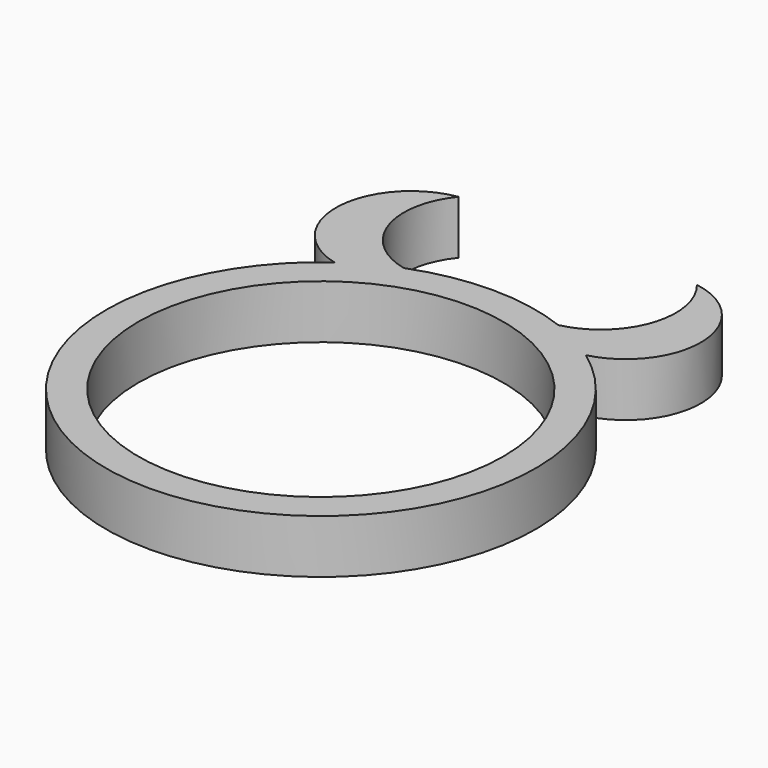
from build123d import *

# Parameters (mm, degrees)
CYLINDER003_R          = 0.7
CYLINDER003_DEPTH      = 0.5
CYLINDER002_R          = 0.7
CYLINDER002_DEPTH      = 0.5
CUT001_PLACEMENT_ANGLE = 60
CYLINDER001_R          = 1.7
CYLINDER001_DEPTH      = 0.5
CYLINDER_R             = 2
CYLINDER_DEPTH         = 0.5
CYLINDER005_R          = 0.7
CYLINDER005_DEPTH      = 0.5
CYLINDER004_R          = 0.7
CYLINDER004_DEPTH      = 0.5
CUT002_PLACEMENT_ANGLE = 300


with BuildPart() as cilindro003:
    # Cylinder003 → Cylinder003 (new body)
    with BuildSketch(Plane(origin=(0, 0.5, 0), x_dir=(1, 0, 0), z_dir=(0, 0, 1))):
        Circle(CYLINDER003_R)
    extrude(amount=CYLINDER003_DEPTH)


with BuildPart() as cut001:
    # Cylinder002 → Cylinder002 (new body)
    with BuildSketch(Plane.XY):
        Circle(CYLINDER002_R)
    extrude(amount=CYLINDER002_DEPTH)

    # Cut001: cut Cilindro003
    add(cilindro003.part, mode=Mode.SUBTRACT)


with BuildPart() as cut001_1:
    # Cut001 placement: moved
    add(cut001.part.moved(Location((1, 2.3, 0))).rotate(Axis((1, 2.3, 0), (0, 0, 1)), CUT001_PLACEMENT_ANGLE))


with BuildPart() as cilindro001:
    # Cylinder001 → Cylinder001 (new body)
    with BuildSketch(Plane.XY):
        Circle(CYLINDER001_R)
    extrude(amount=CYLINDER001_DEPTH)


with BuildPart() as fusion:
    # Cylinder → Cylinder (new body)
    with BuildSketch(Plane.XY):
        Circle(CYLINDER_R)
    extrude(amount=CYLINDER_DEPTH)

    # Cut: cut Cilindro001
    add(cilindro001.part, mode=Mode.SUBTRACT)

    # Fusion: union Cut001
    add(cut001_1.part)


with BuildPart() as cilindro005:
    # Cylinder005 → Cylinder005 (new body)
    with BuildSketch(Plane(origin=(0, 0.5, 0), x_dir=(1, 0, 0), z_dir=(0, 0, 1))):
        Circle(CYLINDER005_R)
    extrude(amount=CYLINDER005_DEPTH)


with BuildPart() as fusion001:
    # Cylinder004 → Cylinder004 (new body)
    with BuildSketch(Plane.XY):
        Circle(CYLINDER004_R)
    extrude(amount=CYLINDER004_DEPTH)

    # Cut002: cut Cilindro005
    add(cilindro005.part, mode=Mode.SUBTRACT)


with BuildPart() as fusion001_1:
    # Cut002 placement: moved
    add(fusion001.part.moved(Location((-1, 2.3, 0))).rotate(Axis((-1, 2.3, 0), (0, 0, 1)), CUT002_PLACEMENT_ANGLE))

    # Fusion001: union Fusion
    add(fusion.part)


solid = fusion001_1.part
